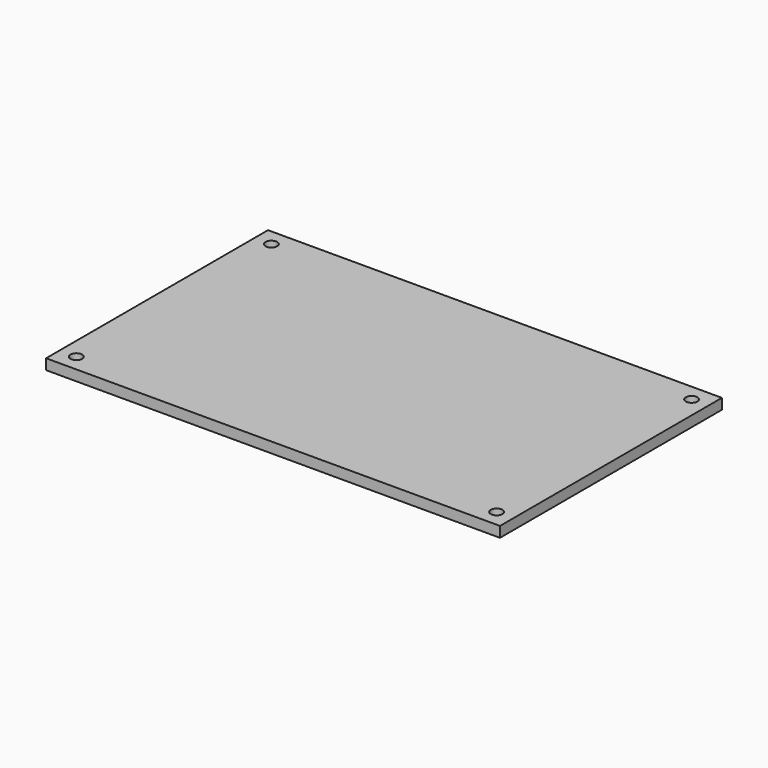
from build123d import *

# Parameters (mm, degrees)
SKETCH_W  = 137.16
SKETCH_H  = 83.82
SKETCH_R  = 1.7653
PAD_DEPTH = 3.175


with BuildPart() as part:
    # Sketch → Pad (new body)
    with BuildSketch(Plane.XY):
        Rectangle(SKETCH_W, SKETCH_H)
        with Locations((-63.5, -36.83)):
            Circle(SKETCH_R, mode=Mode.SUBTRACT)
        with Locations((-63.5, 36.83)):
            Circle(SKETCH_R, mode=Mode.SUBTRACT)
        with Locations((63.5, 36.83)):
            Circle(SKETCH_R, mode=Mode.SUBTRACT)
        with Locations((63.5, -36.83)):
            Circle(SKETCH_R, mode=Mode.SUBTRACT)
    extrude(amount=PAD_DEPTH)


solid = part.part
